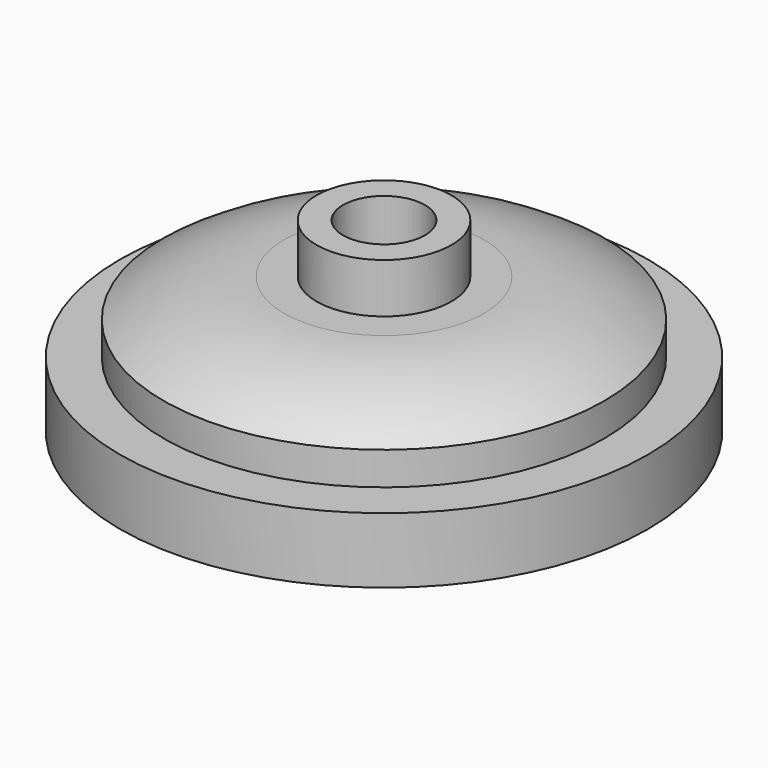
from build123d import *

# Parameters (mm, degrees)
F3_D = 16.66748


with BuildPart() as f1:
    # F0 (on Front) → F1 (revolve)
    with BuildSketch(Plane.XZ):
        with BuildLine():
            Line((-44.831, -6.7267071241), (-53.721, -6.7267071241))
            Line((-53.721, -6.7267071241), (-53.721, -20.0617071241))
            Line((-53.721, -20.0617071241), (0, -20.0617071241))
            Line((0, -20.0617071241), (0, 17.7842928759))
            Line((0, 17.7842928759), (-13.716, 17.7842928759))
            Line((-13.716, 17.7842928759), (-13.716, 7.6767612798))
            Line((-13.716, 7.6767612798), (-20.32, 7.6767612798))
            ThreePointArc((-20.32, 7.6767612798), (-33.1625249148, 5.7126824661), (-44.831, 0))
            Line((-44.831, 0), (-44.831, -6.7267071241))
        make_face()
    revolve(axis=Axis((0, 0, -1.1387071241), (0, 0, 1)))

    # F3 (through all)
    with Locations(Plane.XY.offset(17.7842928759)):
        with Locations((0, 0)):
            Hole(F3_D / 2)


solid = f1.part
